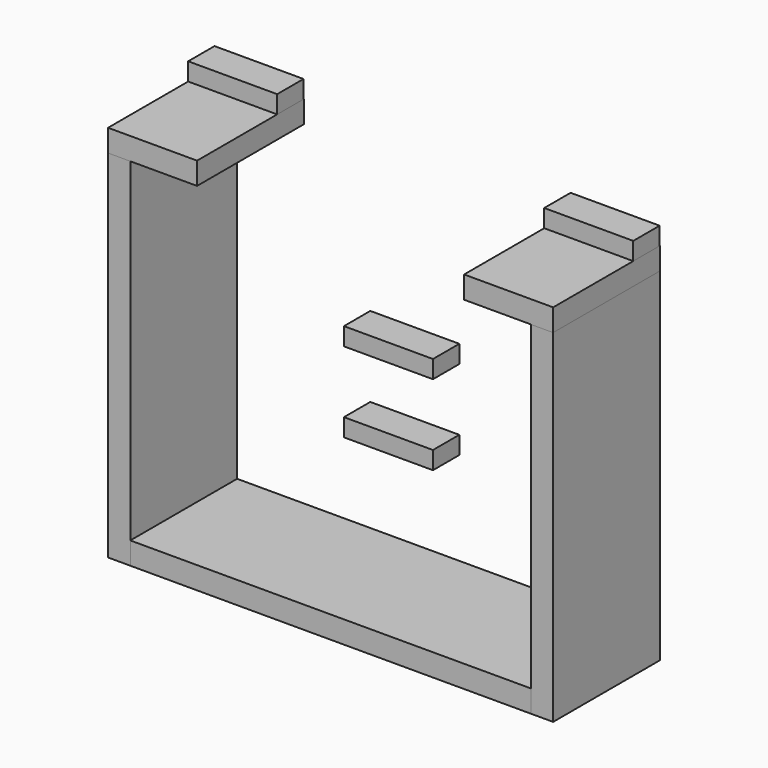
from build123d import *

# Parameters (mm, degrees)
BOX_W        = 100
BOX_H        = 30
BOX_DEPTH    = 5
BOX001_W     = 5
BOX001_H     = 30
BOX001_DEPTH = 85
BOX002_W     = 5
BOX002_H     = 30
BOX002_DEPTH = 82
BOX003_W     = 20
BOX003_H     = 30
BOX003_DEPTH = 5
BOX004_W     = 20
BOX004_H     = 30
BOX004_DEPTH = 5
BOX006_W     = 20
BOX006_H     = 7.4
BOX006_DEPTH = 4
BOX008_W     = 20
BOX008_H     = 7.4
BOX008_DEPTH = 4
BOX009_W     = 20
BOX009_H     = 7.4
BOX009_DEPTH = 4
BOX010_W     = 20
BOX010_H     = 7.4
BOX010_DEPTH = 4


with BuildPart() as base:
    # Box → Box (new body)
    with BuildSketch(Plane.XY):
        with Locations((50, 15)):
            Rectangle(BOX_W, BOX_H)
    extrude(amount=BOX_DEPTH)


with BuildPart() as obj1:
    # Box001 → Box001 (new body)
    with BuildSketch(Plane.XY):
        with Locations((2.5, 15)):
            Rectangle(BOX001_W, BOX001_H)
    extrude(amount=BOX001_DEPTH)


with BuildPart() as side_laser:
    # Box002 → Box002 (new body)
    with BuildSketch(Plane(origin=(95, 0, 0), x_dir=(1, 0, 0), z_dir=(0, 0, 1))):
        with Locations((2.5, 15)):
            Rectangle(BOX002_W, BOX002_H)
    extrude(amount=BOX002_DEPTH)


with BuildPart() as platform_laser:
    # Box003 → Box003 (new body)
    with BuildSketch(Plane(origin=(80, 0, 77), x_dir=(1, 0, 0), z_dir=(0, 0, 1))):
        with Locations((10, 15)):
            Rectangle(BOX003_W, BOX003_H)
    extrude(amount=BOX003_DEPTH)


with BuildPart() as obj2:
    # Box004 → Box004 (new body)
    with BuildSketch(Plane.XY.offset(80)):
        with Locations((10, 15)):
            Rectangle(BOX004_W, BOX004_H)
    extrude(amount=BOX004_DEPTH)


with BuildPart() as box006:
    # Box006 → Box006 (new body)
    with BuildSketch(Plane(origin=(0, 22.5, 85), x_dir=(1, 0, 0), z_dir=(0, 0, 1))):
        with Locations((10, 3.7)):
            Rectangle(BOX006_W, BOX006_H)
    extrude(amount=BOX006_DEPTH)


with BuildPart() as box008:
    # Box008 → Box008 (new body)
    with BuildSketch(Plane(origin=(80, 22.5, 82), x_dir=(1, 0, 0), z_dir=(0, 0, 1))):
        with Locations((10, 3.7)):
            Rectangle(BOX008_W, BOX008_H)
    extrude(amount=BOX008_DEPTH)


with BuildPart() as box009:
    # Box009 → Box009 (new body)
    with BuildSketch(Plane(origin=(35, 22.5, 26), x_dir=(1, 0, 0), z_dir=(0, 0, 1))):
        with Locations((10, 3.7)):
            Rectangle(BOX009_W, BOX009_H)
    extrude(amount=BOX009_DEPTH)


with BuildPart() as box010:
    # Box010 → Box010 (new body)
    with BuildSketch(Plane(origin=(35, 22.5, 44), x_dir=(1, 0, 0), z_dir=(0, 0, 1))):
        with Locations((10, 3.7)):
            Rectangle(BOX010_W, BOX010_H)
    extrude(amount=BOX010_DEPTH)


solid = Compound([base.part, obj1.part, side_laser.part, platform_laser.part, obj2.part, box006.part, box008.part, box009.part, box010.part])
